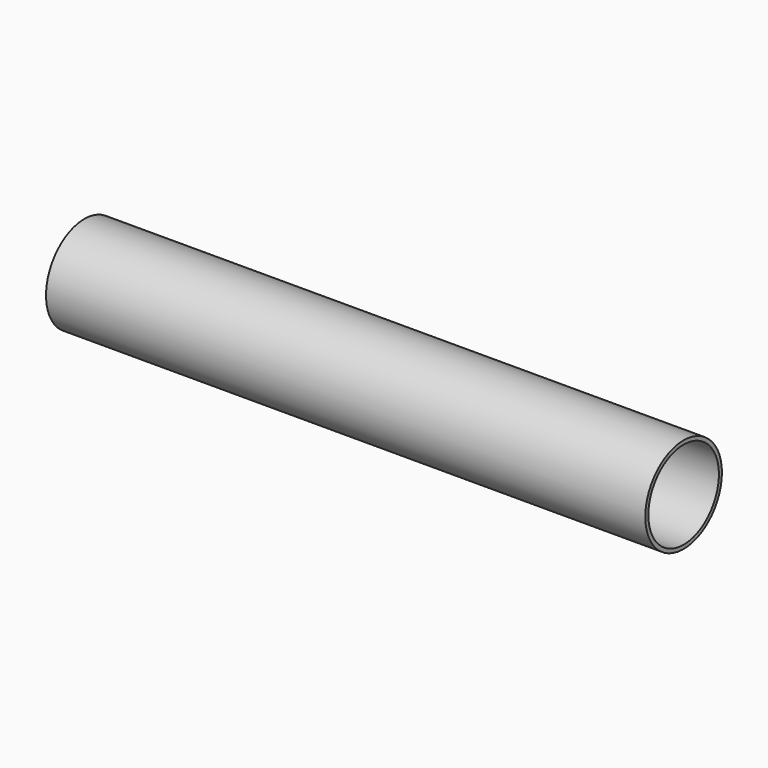
from build123d import *

# Parameters (mm, degrees)
F0_R     = 12.68841
F1_DEPTH = 158.75
F3_D     = 23.368


with BuildPart() as f1:
    # F0 (on Right) → F1 (new body)
    with BuildSketch(Plane.YZ):
        Circle(F0_R)
    extrude(amount=F1_DEPTH)

    # F3 (through all)
    with Locations(Plane(origin=(0, 0, 0), x_dir=(0, 1, 0), z_dir=(-1, 0, 0))):
        with Locations((0, 0)):
            Hole(F3_D / 2)


solid = f1.part
